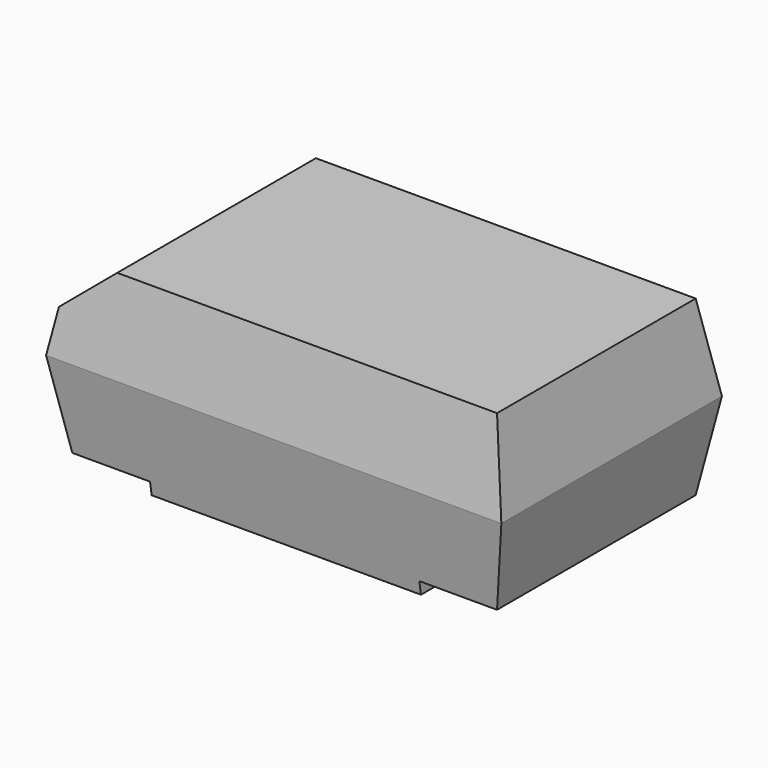
from build123d import *

# Parameters (mm, degrees)
PAD002_DEPTH    = 2.15
POCKET004_DEPTH = 10
POCKET005_DEPTH = 12.5
CHAMFER001_SIZE = 0.7


with BuildPart() as part:
    # Sketch011 → Pad002 (new body, symmetric)
    with BuildSketch(Plane.XZ):
        Polygon((-3.311958576, 2.9), (3.311958576, 2.9), (3.55, 1.55), (3.311958576, 0.2), (2.1, 0.2), (2.1, 0), (-2.1, 0), (-2.1, 0.2), (-3.311958576, 0.2), (-3.55, 1.55), align=None)
    extrude(amount=PAD002_DEPTH, both=True)

    # Sketch012 → Pocket004 (cut, symmetric)
    with BuildSketch(Plane(origin=(2.1, 0, 0), x_dir=(0, 0, 1), z_dir=(1, 0, 0))):
        Polygon((2.9220926693, 2.229851), (3.3067026402, 1.8717656945), (1.045841, 2.229851), align=None)
        Polygon((3.3067026402, -1.8717656945), (2.9220926693, -2.229851), (1.045841, -2.229851), align=None)
    extrude(amount=POCKET004_DEPTH, both=True, mode=Mode.SUBTRACT)

    # Sketch013 → Pocket005 (cut, symmetric)
    with BuildSketch(Plane(origin=(2.1, 0, 0), x_dir=(0, 0, 1), z_dir=(1, 0, 0))):
        Polygon((2.1937543082, 2.2519614985), (-0.4776096389, 2.2519614985), (-0.6097972306, 1.8079225571), align=None)
        Polygon((2.1937543082, -2.2519614985), (-0.4776096389, -2.2519614985), (-0.6097972306, -1.8079225571), align=None)
    extrude(amount=POCKET005_DEPTH, both=True, mode=Mode.SUBTRACT)

    # Chamfer001
    chamfer001_edges = [part.edges().sort_by_distance(p)[0] for p in [
        (-3.311959, 0, 2.9),
    ]]
    chamfer(chamfer001_edges, length=CHAMFER001_SIZE)


solid = part.part
